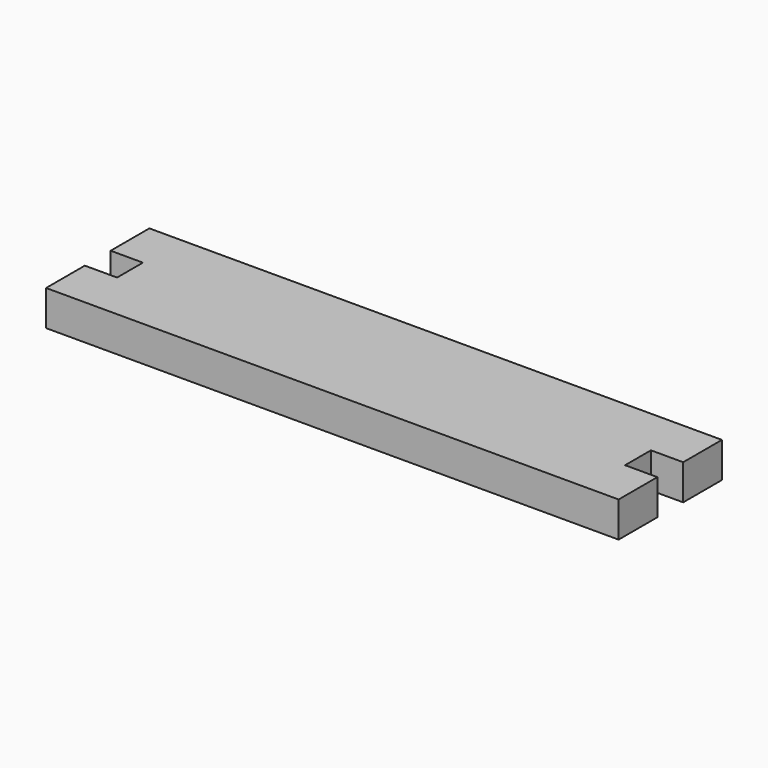
from build123d import *

# Parameters (mm, degrees)
F0_W     = 745
F0_H     = 168
F1_DEPTH = 46
F3_DEPTH = 46
F4_W     = 42
F4_H     = 42
F5_DEPTH = 46


with BuildPart() as f1:
    # F0 (on Top) → F1 (new body)
    with BuildSketch(Plane.XY):
        with Locations((198.933674, -29.865599)):
            Rectangle(F0_W, F0_H)
    extrude(amount=F1_DEPTH)

    # F2 (on face) → F3 (cut)
    with BuildSketch(Plane.XY.offset(46)):
        Polygon((529.433674, -8.864585), (529.433674, -29.865599), (529.433674, -50.864585), (571.433674, -50.864585), (571.433674, -8.864585), align=None)
    extrude(amount=-F3_DEPTH, mode=Mode.SUBTRACT)

    # F4 (on face) → F5 (cut)
    with BuildSketch(Plane.XY.offset(46)):
        with Locations((-152.566326, -29.864585)):
            Rectangle(F4_W, F4_H)
    extrude(amount=-F5_DEPTH, mode=Mode.SUBTRACT)


solid = f1.part
